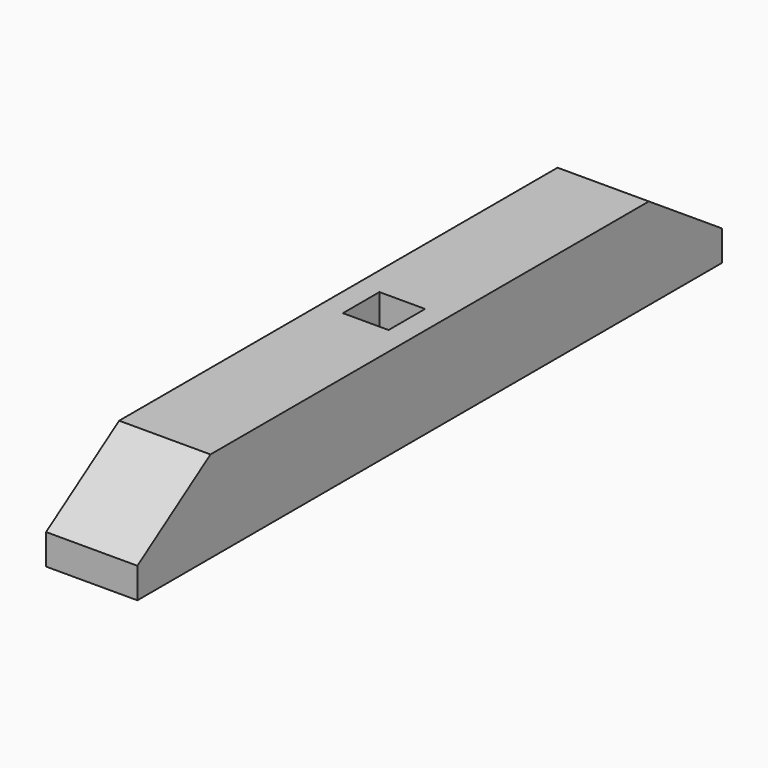
from build123d import *

# Parameters (mm, degrees)
F1_DEPTH = 38.1
F2_W     = 19.05
F2_H     = 9.525
F3_DEPTH = 19.05


with BuildPart() as f1:
    # F0 (on Right) → F1 (new body)
    with BuildSketch(Plane.YZ):
        Polygon((152.4, -6.35), (114.3, 19.05), (-114.3, 19.05), (-152.4, -6.35), (-152.4, -19.05), (-101.6, -19.05), (76.2, -19.05), (152.4, -19.05), align=None)
    extrude(amount=F1_DEPTH)

    # F2 (on face) → F3 (cut)
    with BuildSketch(Plane.XY.offset(19.05)):
        with Locations((19.05, 4.7625)):
            Rectangle(F2_W, F2_H)
        with Locations((19.05, -4.7625)):
            Rectangle(F2_W, F2_H)
    extrude(amount=-F3_DEPTH, mode=Mode.SUBTRACT)


with BuildPart() as f4_1:
    # F4: copy of F1
    add(f1.part)


solid = f1.part
